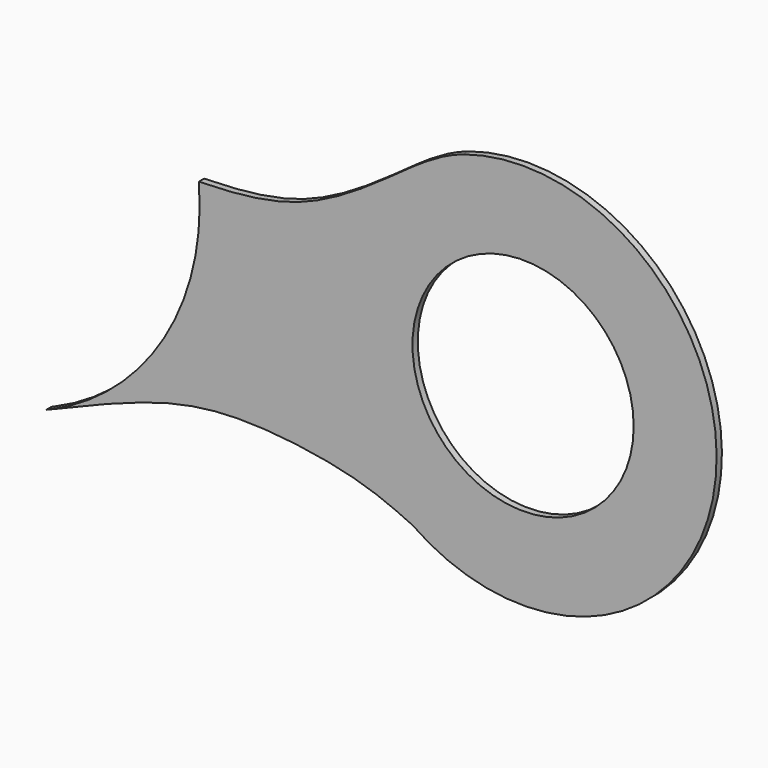
from build123d import *

# Parameters (mm, degrees)
F0_R     = 100
F1_DEPTH = 6


with BuildPart() as f1:
    # F0 (on Front) → F1 (new body)
    with BuildSketch(Plane.XZ):
        with BuildLine():
            add(Edge.make_bspline(
                [(-249.4231343644, -154.3933682386), (-223.5120079814, -143.4502364599), (-170.7625289022, -121.2985476431), (-89.863401919, -99.4867072523), (26.868741293, -115.2851283564), (63.815574465, -132.5780814532), (79.0749468126, -139.5989009539)],
                knots=[0.0087863907, 0.0087863907, 0.0087863907, 0.0087863907, 0.2523047734, 0.5048491424, 0.7962067051, 1, 1, 1, 1], degree=3))
            ThreePointArc((79.0749468126, -139.5989009539), (352.173907442, -21.4838337309), (124.771354619, 170.4075167035))
            add(Edge.make_bspline(
                [(-114.1517968979, 70.9985295702), (-89.7166741497, 71.6239199153), (-21.1550456487, 74.4192361381), (64.1288480457, 134.6489340769), (102.6012936343, 162.8974831582), (124.771354619, 170.4075167035)],
                knots=[0, 0, 0, 0, 0.3373545398, 0.7009515305, 1, 1, 1, 1], degree=3))
            ThreePointArc((-114.1517968979, 70.9985295702), (-145.449431752, -63.5060756857), (-249.4231343644, -154.3933682386))
        make_face()
        with Locations((179.0446887279, 4.0362295031)):
            Circle(F0_R, mode=Mode.SUBTRACT)
    extrude(amount=F1_DEPTH)


with BuildPart() as f1b:
    # F0 (on Front) → F1, piece 2 (new body)
    with BuildSketch(Plane.XZ):
        with BuildLine():
            ThreePointArc((-252.2278778366, -155.5780629728), (-250.8235021784, -154.9904598553), (-249.4231343644, -154.3933682386))
            add(Edge.make_bspline(
                [(-252.2278778366, -155.5780629728), (-251.2929551043, -155.1831364557), (-250.3580341362, -154.788207554), (-249.4231343644, -154.3933682386)],
                knots=[0, 0, 0, 0, 0.0087863907, 0.0087863907, 0.0087863907, 0.0087863907], degree=3))
        make_face()
    extrude(amount=F1_DEPTH)


solid = Compound([f1.part, f1b.part])
